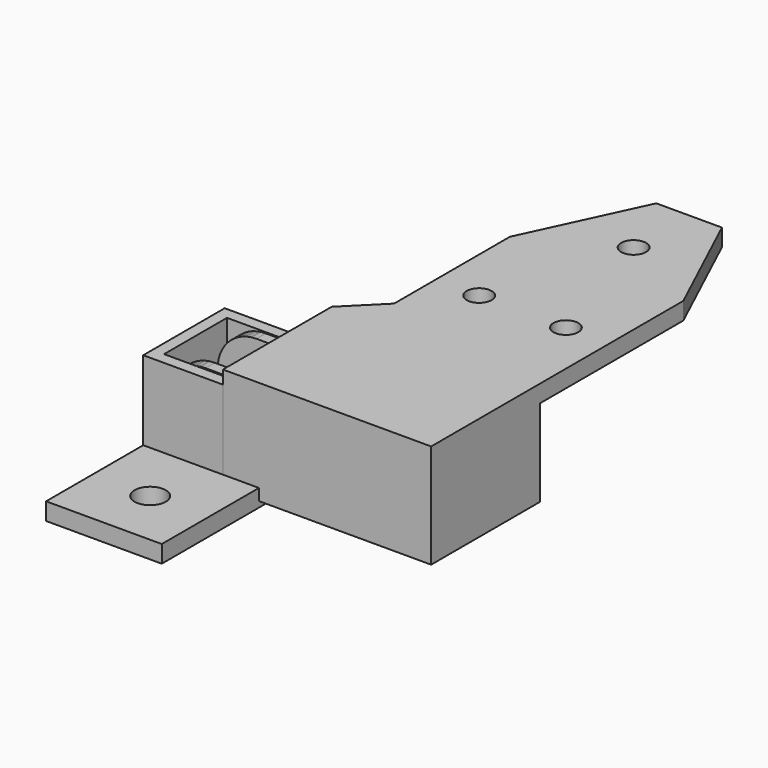
from build123d import *

# Parameters (mm, degrees)
PAD_DEPTH            = 7
SKETCH003_W          = 31.25
SKETCH003_H          = 17.7
POCKET_DEPTH         = 8.801
POCKET_DEPTH_BACK    = -8.801
POCKET001_DEPTH      = 6.8
POCKET002_DEPTH      = 20.551
SKETCH006_W          = 5.682976
SKETCH006_H          = 9
POCKET003_DEPTH      = 6.701
POCKET004_DEPTH      = 7.001
POCKET004_DEPTH_BACK = -6.701
SKETCH010_W          = 29.476702
SKETCH010_H          = 17.6
PAD001_DEPTH         = 7
SKETCH011_W          = 33.476702
SKETCH011_H          = 17.7
POCKET005_DEPTH      = 8.801
POCKET005_DEPTH_BACK = -8.801
POCKET006_DEPTH      = 6.8
SKETCH013_W          = 11.776702
SKETCH013_H          = 13.6
POCKET007_DEPTH      = 7.001
POCKET007_DEPTH_BACK = -6.701
POCKET008_DEPTH      = 20.551
POCKET009_DEPTH      = 7.001
POCKET009_DEPTH_BACK = -6.701
SKETCH017_W          = 20
SKETCH017_H          = 38.6
SKETCH017_R          = 2.7
PAD002_DEPTH         = 3
PAD003_DEPTH         = 9
POCKET010_DEPTH      = 17.701
POCKET010_DEPTH_BACK = -8.801
POCKET011_DEPTH      = 15
POCKET012_DEPTH      = 16
SKETCH023_R          = 2.15
PAD004_DEPTH         = 3
CHAMFER_SIZE         = 3
CHAMFER001_SIZE      = 2.99


with BuildPart() as chain_link:
    # Sketch002 → Pad (new body, symmetric)
    with BuildSketch(Plane.XY):
        Polygon((-6.7, 6.5), (-6.7, 4.5), (4.85, 4.5), (4.85, -4.5), (-6.7, -4.5), (-6.7, -6.5), (4.85, -6.5), (4.85, -8.8), (20.55, -8.8), (20.55, 8.8), (4.85, 8.8), (4.85, 6.5), align=None)
    extrude(amount=PAD_DEPTH, both=True)

    # Sketch003 → Pocket (cut, two sides)
    with BuildSketch(Plane.XZ) as pocket_sk:
        with Locations((6.925, -0.15)):
            Rectangle(SKETCH003_W, SKETCH003_H)
        with BuildLine():
            ThreePointArc((0, 6.7), (-6.627826, 0.980779), (-1.940429, -6.412857))
            Line((5e-06, -7), (-1.940429, -6.412857))
            Line((20.55, -7), (5e-06, -7))
            Line((20.55, 0), (20.55, -7))
            ThreePointArc((20.55, 0), (20.327307, 1.406027), (19.681027, 2.674423))
            Line((16.756274, 6.7), (19.681027, 2.674423))
            Line((0, 6.7), (16.756274, 6.7))
        make_face(mode=Mode.SUBTRACT)
    extrude(amount=-POCKET_DEPTH, mode=Mode.SUBTRACT)
    extrude(pocket_sk.sketch, amount=-POCKET_DEPTH_BACK, mode=Mode.SUBTRACT)

    # Sketch004 → Pocket001 (cut, symmetric)
    with BuildSketch(Plane.XZ):
        with BuildLine():
            Line((11.885511, 5.663125), (13.312648, 6.7))
            Line((13.312648, 6.7), (16.756274, 6.7))
            Line((16.756274, 6.7), (19.681027, 2.674423))
            ThreePointArc((20.55, 1.6e-05), (20.327305, 1.406035), (19.681027, 2.674423))
            Line((20.55, 1.6e-05), (20.55, -7))
            Line((20.55, -7), (11.073298, -7))
            Line((11.073298, -7), (11.073298, -4.972686))
            ThreePointArc((11.885511, 5.663125), (9.020322, 0.533009), (11.073298, -4.972686))
        make_face()
    extrude(amount=POCKET001_DEPTH, both=True, mode=Mode.SUBTRACT)

    # Sketch005 → Pocket002 (cut, through all)
    with BuildSketch(Plane.YZ):
        with BuildLine():
            Line((-3.5, 4.7), (3.5, 4.7))
            ThreePointArc((4.5, 3.7), (4.207107, 4.407107), (3.5, 4.7))
            Line((4.5, 3.7), (4.5, -3.7))
            ThreePointArc((3.5, -4.7), (4.207107, -4.407107), (4.5, -3.7))
            Line((3.5, -4.7), (-3.5, -4.7))
            ThreePointArc((-4.5, -3.7), (-4.207107, -4.407107), (-3.5, -4.7))
            Line((-4.5, -3.7), (-4.5, 3.7))
            ThreePointArc((-3.5, 4.7), (-4.207107, 4.407107), (-4.5, 3.7))
        make_face()
    extrude(amount=POCKET002_DEPTH, mode=Mode.SUBTRACT)

    # Sketch006 → Pocket003 (cut, through all)
    with BuildSketch(Plane.XY):
        with Locations((13.914786, 0)):
            Rectangle(SKETCH006_W, SKETCH006_H)
    extrude(amount=POCKET003_DEPTH, mode=Mode.SUBTRACT)

    # Sketch007 → Revolution (revolve)
    with BuildSketch(Plane.XY):
        Polygon((16, 6.8), (19.275, 6.8), (18.729045, 5.3), (16, 5.3), align=None)
    revolution = revolve(axis=Axis((16, 5.3, 0), (0, 1, 0)))

    # Mirrored: Revolution across XZ
    add(revolution.mirror(Plane.XZ))

    # Sketch008 → Groove (revolve, cut)
    with BuildSketch(Plane.XY):
        Polygon((0, 6.5), (3.5, 6.5), (3.099633, 5.4), (3.099633, 5), (0, 5), align=None)
    groove = revolve(axis=Axis((0, 5, 0), (0, 1, 0)), mode=Mode.SUBTRACT)

    # Mirrored001: Groove across XZ
    add(groove.mirror(Plane.XZ), mode=Mode.SUBTRACT)

    # Sketch009 → Pocket004 (cut, two sides)
    with BuildSketch(Plane.XY) as pocket004_sk:
        Polygon((16, 5.3), (16, -5.3), (20.7, -6.8), (20.7, 6.8), align=None)
    extrude(amount=-POCKET004_DEPTH, mode=Mode.SUBTRACT)
    extrude(pocket004_sk.sketch, amount=-POCKET004_DEPTH_BACK, mode=Mode.SUBTRACT)


with BuildPart() as connector_frame:
    # Sketch010 → Pad001 (new body, symmetric)
    with BuildSketch(Plane.XY):
        with Locations((5.811649, 0)):
            Rectangle(SKETCH010_W, SKETCH010_H)
    extrude(amount=PAD001_DEPTH, both=True)

    # Sketch011 → Pocket005 (cut, two sides)
    with BuildSketch(Plane.XZ) as pocket005_sk:
        with Locations((5.811649, -0.15)):
            Rectangle(SKETCH011_W, SKETCH011_H)
        with BuildLine():
            Line((-8.926702, -7), (-8.926702, 6.7))
            Line((-8.926702, 6.7), (16.756274, 6.7))
            Line((16.756274, 6.7), (19.681027, 2.674423))
            ThreePointArc((20.55, 0), (20.327307, 1.406027), (19.681027, 2.674423))
            Line((20.55, 0), (20.55, -7))
            Line((20.55, -7), (-8.926702, -7))
        make_face(mode=Mode.SUBTRACT)
    extrude(amount=-POCKET005_DEPTH, mode=Mode.SUBTRACT)
    extrude(pocket005_sk.sketch, amount=-POCKET005_DEPTH_BACK, mode=Mode.SUBTRACT)

    # Sketch012 → Pocket006 (cut, symmetric)
    with BuildSketch(Plane.XZ):
        with BuildLine():
            ThreePointArc((11.073298, 4.972686), (9, 0), (11.073298, -4.972686))
            Line((11.073298, -4.972686), (11.073298, -7))
            Line((11.073298, -7), (20.55, -7))
            Line((20.55, -7), (20.55, 0))
            ThreePointArc((20.55, 0), (20.327307, 1.406027), (19.681027, 2.674423))
            Line((16.756274, 6.7), (19.681027, 2.674423))
            Line((11.073298, 6.7), (16.756274, 6.7))
            Line((11.073298, 4.972686), (11.073298, 6.7))
        make_face()
    extrude(amount=POCKET006_DEPTH, both=True, mode=Mode.SUBTRACT)

    # Sketch013 → Pocket007 (cut, two sides)
    with BuildSketch(Plane.XY) as pocket007_sk:
        with Locations((-1.038351, 0)):
            Rectangle(SKETCH013_W, SKETCH013_H)
    extrude(amount=-POCKET007_DEPTH, mode=Mode.SUBTRACT)
    extrude(pocket007_sk.sketch, amount=-POCKET007_DEPTH_BACK, mode=Mode.SUBTRACT)

    # Sketch014 → Pocket008 (cut, through all)
    with BuildSketch(Plane.YZ):
        with BuildLine():
            ThreePointArc((-3.499995, 4.7), (-4.207109, 4.407105), (-4.5, 3.69999))
            Line((-4.5, 3.69999), (-4.5, -3.7))
            ThreePointArc((-4.5, -3.7), (-4.207107, -4.407107), (-3.5, -4.7))
            Line((3.5, -4.7), (-3.5, -4.7))
            ThreePointArc((3.5, -4.7), (4.207107, -4.407107), (4.5, -3.7))
            Line((4.5, 3.7), (4.5, -3.7))
            ThreePointArc((4.5, 3.7), (4.207107, 4.407107), (3.5, 4.7))
            Line((-3.499995, 4.7), (3.5, 4.7))
        make_face()
    extrude(amount=POCKET008_DEPTH, mode=Mode.SUBTRACT)

    # Sketch015 → Revolution001 (revolve)
    with BuildSketch(Plane.XY):
        Polygon((16, 6.8), (16, 5.3), (18.729045, 5.3), (19.275, 6.8), align=None)
    revolution001 = revolve(axis=Axis((16, 6.8, 0), (0, -1, 0)))

    # Mirrored002: Revolution001 across XZ
    add(revolution001.mirror(Plane.XZ))

    # Sketch016 → Pocket009 (cut, two sides)
    with BuildSketch(Plane.XY) as pocket009_sk:
        Polygon((16, 5.3), (16, -5.3), (20.7, -6.8), (20.7, 6.8), align=None)
    extrude(amount=-POCKET009_DEPTH, mode=Mode.SUBTRACT)
    extrude(pocket009_sk.sketch, amount=-POCKET009_DEPTH_BACK, mode=Mode.SUBTRACT)

    # Sketch017 → Pad002 (join)
    with BuildSketch(Plane.XY.offset(-7)):
        with Locations((1.073298, -10.5)):
            Rectangle(SKETCH017_W, SKETCH017_H)
        with Locations((1.073298, -19.8)):
            Circle(SKETCH017_R, mode=Mode.SUBTRACT)
    extrude(amount=-PAD002_DEPTH)


with BuildPart() as connector_bed:
    # Sketch018 → Pad003 (new body, symmetric)
    with BuildSketch(Plane.XY):
        Polygon((-6.7, 6.5), (-6.7, 4.5), (4.85, 4.5), (4.85, -4.5), (-6.7, -4.5), (-6.7, -6.5), (4.85, -6.5), (4.85, -8.8), (40.85, -8.8), (40.85, 17.7), (4.85, 17.7), (4.85, 6.5), align=None)
    extrude(amount=PAD003_DEPTH, both=True)

    # Sketch019 → Pocket010 (cut, two sides)
    with BuildSketch(Plane.XZ) as pocket010_sk:
        with BuildLine():
            ThreePointArc((0, 6.7), (-6.627826, 0.98078), (-1.940429, -6.412857))
            Line((-1.940429, -6.412857), (0, -7))
            Line((0, -7), (4.85, -7))
            Line((4.85, -10.15), (4.85, -7))
            Line((-9.85, -10.15), (4.85, -10.15))
            Line((-9.85, 9.85), (-9.85, -10.15))
            Line((4.85, 9.85), (-9.85, 9.85))
            Line((4.85, 6.7), (4.85, 9.85))
            Line((4.85, 6.7), (0, 6.7))
        make_face()
    extrude(amount=-POCKET010_DEPTH, mode=Mode.SUBTRACT)
    extrude(pocket010_sk.sketch, amount=-POCKET010_DEPTH_BACK, mode=Mode.SUBTRACT)

    # Sketch020 → Groove001 (revolve, cut)
    with BuildSketch(Plane.XY):
        Polygon((0, 6.5), (3.5, 6.5), (3.099633, 5.4), (3.099633, 5), (0, 5), align=None)
    groove001 = revolve(axis=Axis((0, 5, 0), (0, 1, 0)), mode=Mode.SUBTRACT)

    # Mirrored003: Groove001 across XZ
    add(groove001.mirror(Plane.XZ), mode=Mode.SUBTRACT)

    # Sketch021 → Pocket011 (cut)
    with BuildSketch(Plane.XY.offset(-9)):
        Polygon((38.35, 14.7), (38.35, -6.8), (13.35, -6.8), (13.35, 14.7), (3.85, 14.7), (3.85, 18.7), (41.85, 18.7), (41.85, 14.7), align=None)
    extrude(amount=POCKET011_DEPTH, mode=Mode.SUBTRACT)

    # Sketch022 → Pocket012 (cut)
    with BuildSketch(Plane.YZ):
        with BuildLine():
            Line((-3.5, 4.7), (3.5, 4.7))
            ThreePointArc((4.5, 3.7), (4.207107, 4.407107), (3.5, 4.7))
            Line((4.5, 3.7), (4.5, -3.7))
            ThreePointArc((3.5, -4.7), (4.207107, -4.407107), (4.5, -3.7))
            Line((3.5, -4.7), (-3.5, -4.7))
            ThreePointArc((-4.5, -3.7), (-4.207107, -4.407107), (-3.5, -4.7))
            Line((-4.5, -3.7), (-4.5, 3.7))
            ThreePointArc((-3.5, 4.7), (-4.207107, 4.407107), (-4.5, 3.7))
        make_face()
    extrude(amount=POCKET012_DEPTH, mode=Mode.SUBTRACT)

    # Sketch023 → Pad004 (join)
    with BuildSketch(Plane.XY.offset(9)):
        Polygon((10.85, 0), (10.85, 45.7), (20.176153, 65.7), (31.523847, 65.7), (40.85, 45.7), (40.85, 0), align=None)
        with Locations((25.85, 53.7)):
            Circle(SKETCH023_R, mode=Mode.SUBTRACT)
        with Locations((18.35, 29.7)):
            Circle(SKETCH023_R, mode=Mode.SUBTRACT)
        with Locations((33.35, 29.7)):
            Circle(SKETCH023_R, mode=Mode.SUBTRACT)
    extrude(amount=-PAD004_DEPTH)

    # Chamfer
    chamfer_edges = [connector_bed.edges().sort_by_distance(p)[0] for p in [
        (4.85, 17.7, 6.35),
        (4.85, 17.7, 7.85),
    ]]
    chamfer(chamfer_edges, length=CHAMFER_SIZE)

    # Chamfer001
    chamfer001_edges = [connector_bed.edges().sort_by_distance(p)[0] for p in [
        (10.85, 17.7, 7.5),
    ]]
    chamfer(chamfer001_edges, length=CHAMFER001_SIZE)


solid = Compound([chain_link.part, connector_frame.part, connector_bed.part])
